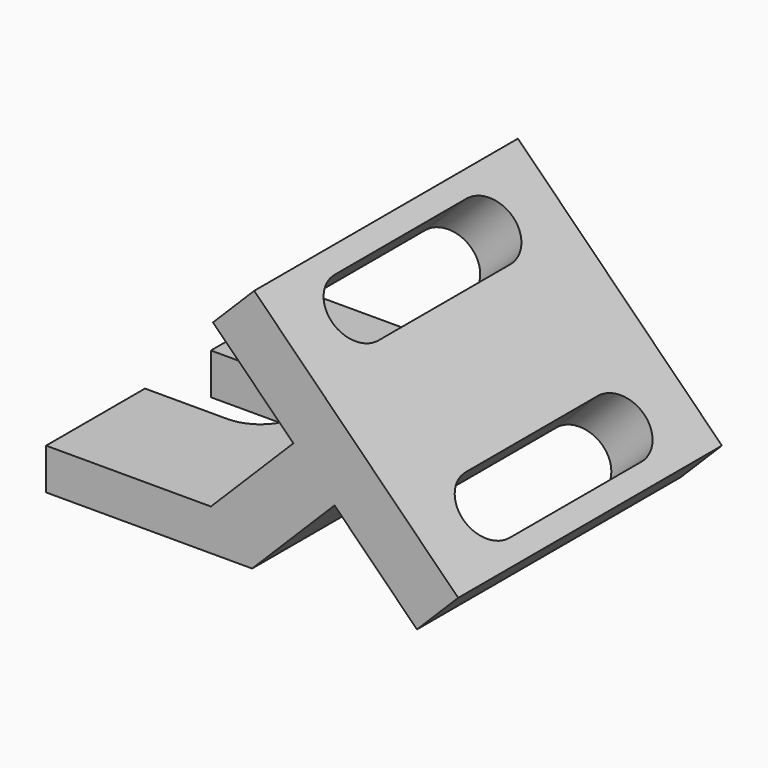
from build123d import *

# Parameters (mm, degrees)
F1_DEPTH = 101.6
F3_DEPTH = 38.1
F5_DEPTH = 25.4


with BuildPart() as f1:
    # F0 (on Front) → F1 (new body, symmetric)
    with BuildSketch(Plane.XZ):
        Polygon((0, 25.4), (0, 0), (127, 0), (177.8, 50.8), (228.6, 0), (254, 25.4), (128.276414, 151.123586), (102.876414, 125.723586), (152.4, 76.2), (101.6, 25.4), align=None)
    extrude(amount=F1_DEPTH, both=True)

    # F2 (on face) → F3 (cut)
    with BuildSketch(Plane(origin=(139.7, 0, 139.7), x_dir=(0, 1, 0), z_dir=(0.707107, 0, 0.707107))):
        with BuildLine():
            Line((50.8, 3.45539), (-50.8, 3.45539))
            ThreePointArc((-50.8, 3.45539), (-69.85, -15.59461), (-50.8, -34.64461))
            Line((-50.8, -34.64461), (50.8, -34.64461))
            ThreePointArc((50.8, -34.64461), (69.85, -15.59461), (50.8, 3.45539))
        make_face()
        with BuildLine():
            ThreePointArc((-50.8, -110.84461), (-69.85, -129.89461), (-50.8, -148.94461))
            Line((-50.8, -148.94461), (50.8, -148.94461))
            ThreePointArc((50.8, -148.94461), (69.85, -129.89461), (50.8, -110.84461))
            Line((50.8, -110.84461), (-50.8, -110.84461))
        make_face()
    extrude(amount=-F3_DEPTH, mode=Mode.SUBTRACT)

    # F4 (on face) → F5 (cut)
    with BuildSketch(Plane.XY.offset(25.4)):
        with BuildLine():
            Line((0, -25.4), (50.8, -25.4))
            ThreePointArc((50.8, -25.4), (76.2, 0), (50.8, 25.4))
            Line((50.8, 25.4), (0, 25.4))
            Line((0, 25.4), (0, -25.4))
        make_face()
    extrude(amount=-F5_DEPTH, mode=Mode.SUBTRACT)


solid = f1.part
